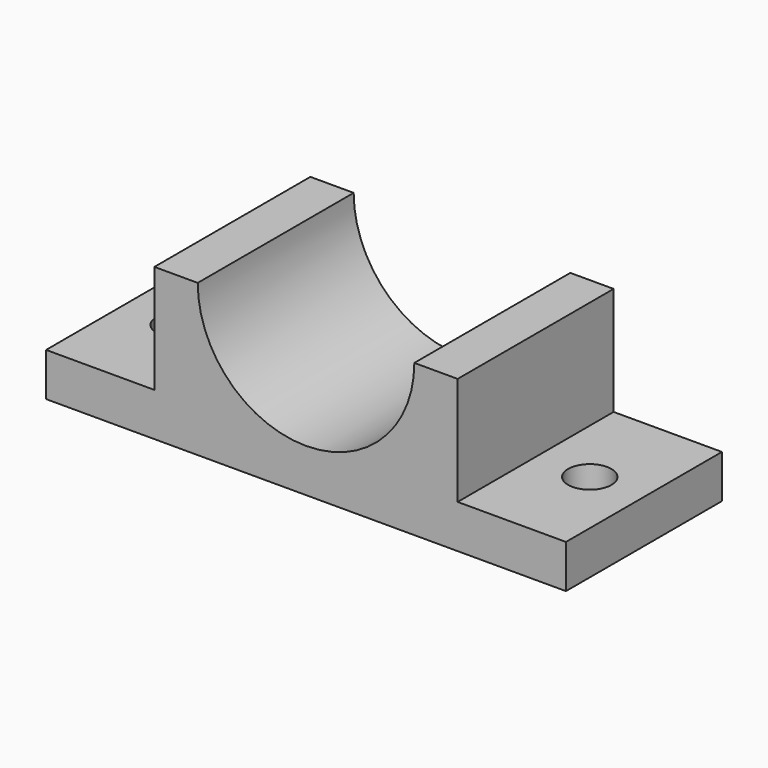
from build123d import *

# Parameters (mm, degrees)
F0_W     = 152.4
F0_H     = 57.15
F1_DEPTH = 12.7
F2_R     = 6.35
F3_DEPTH = 12.701
F2_W     = 88.9
F2_H     = 57.15
F4_DEPTH = 31.75
F6_DEPTH = 57.151


with BuildPart() as f1:
    # F0 (on Top) → F1 (new body)
    with BuildSketch(Plane.XY):
        with Locations((-1.715220511, -9.737819744)):
            Rectangle(F0_W, F0_H)
    extrude(amount=F1_DEPTH)

    # F2 (on face) → F3 (cut, through all)
    with BuildSketch(Plane.XY.offset(12.7)):
        with Locations((58.609779489, -9.737819744)):
            Circle(F2_R)
        with Locations((-62.040220511, -9.737819744)):
            Circle(F2_R)
    extrude(amount=-F3_DEPTH, mode=Mode.SUBTRACT)

    # F2 (on face) → F4 (join)
    with BuildSketch(Plane.XY.offset(12.7)):
        with Locations((-1.715220511, -9.737819744)):
            Rectangle(F2_W, F2_H)
    extrude(amount=F4_DEPTH)

    # F5 (on face) → F6 (cut, through all)
    with BuildSketch(Plane.XZ.offset(38.312819744)):
        with BuildLine():
            ThreePointArc((-33.465220511, 44.45), (-1.715220511, 12.7), (30.034779489, 44.45))
            Line((30.034779489, 44.45), (-33.465220511, 44.45))
        make_face()
    extrude(amount=-F6_DEPTH, mode=Mode.SUBTRACT)


solid = f1.part
